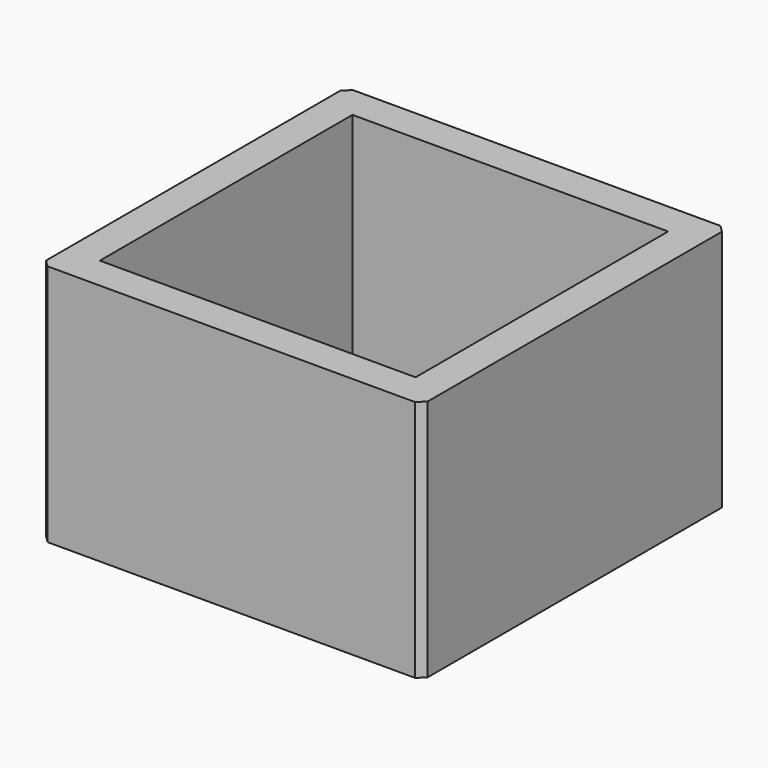
from build123d import *

# Parameters (mm, degrees)
F0_W     = 110
F0_H     = 110
F0_W_2   = 91
F0_H_2   = 91
F1_DEPTH = 35
F2_SIZE  = 2


with BuildPart() as f1:
    # F0 (on Top) → F1 (new body, symmetric)
    with BuildSketch(Plane.XY):
        Rectangle(F0_W, F0_H)
        Rectangle(F0_W_2, F0_H_2, mode=Mode.SUBTRACT)
    extrude(amount=F1_DEPTH, both=True)

    # F2
    f2_edges = [f1.edges().sort_by_distance(p)[0] for p in [
        (-55, -55, 0),
        (55, -55, 0),
        (55, 55, 0),
        (-55, 55, 0),
    ]]
    chamfer(f2_edges, length=F2_SIZE)


solid = f1.part
